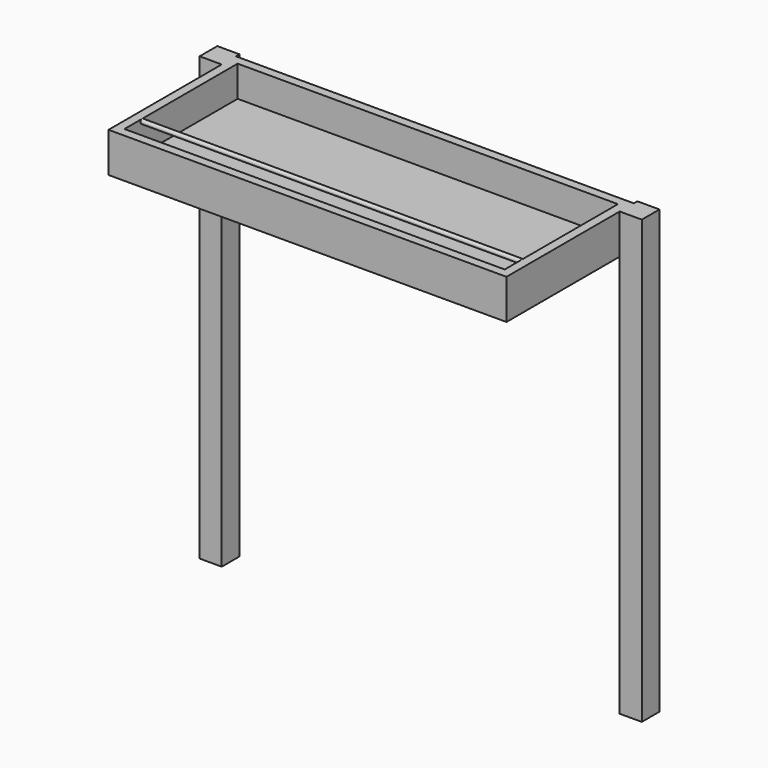
from build123d import *

# Parameters (mm, degrees)
F1_W      = 50
F1_H      = 50
F2_DEPTH  = 1000
F3_W      = 20
F3_H      = 100
F4_DEPTH  = 900
F5_W      = 900
F5_H      = 90
F6_DEPTH  = 340
F7_W      = 860
F7_H      = 320
F8_DEPTH  = 70
F9_R      = 5
F10_DEPTH = 860


with BuildPart() as f2:
    # F1 (on Top) → F2 (new body)
    with BuildSketch(Plane.XY):
        with Locations((-25, -25)):
            Rectangle(F1_W, F1_H)
    extrude(amount=-F2_DEPTH)



with BuildPart() as f2b:
    # F1 (on Top) → F2, piece 2 (new body)
    with BuildSketch(Plane.XY):
        with Locations((-975, -25)):
            Rectangle(F1_W, F1_H)
    extrude(amount=-F2_DEPTH)


with BuildPart() as f2_1:
    add(f2.part)

    add(f2b.part)  # F4 merges F2b
    # F3 (on face) → F4 (join, through all)
    with BuildSketch(Plane.YZ.offset(-950)):
        with Locations((-20, -50)):
            Rectangle(F3_W, F3_H)
    extrude(amount=F4_DEPTH)

    # F5 (on face) → F6 (join)
    with BuildSketch(Plane.XZ.offset(30)):
        with Locations((-500, -45)):
            Rectangle(F5_W, F5_H)
    extrude(amount=F6_DEPTH)

    # F7 (on face) → F8 (cut)
    with BuildSketch(Plane.XY):
        with Locations((-500, -190)):
            Rectangle(F7_W, F7_H)
    extrude(amount=-F8_DEPTH, mode=Mode.SUBTRACT)

    # F9 (on face) → F10 (join, through all)
    with BuildSketch(Plane.YZ.offset(-930)):
        with Locations((-300, -5)):
            Circle(F9_R)
    extrude(amount=F10_DEPTH)


solid = f2_1.part
